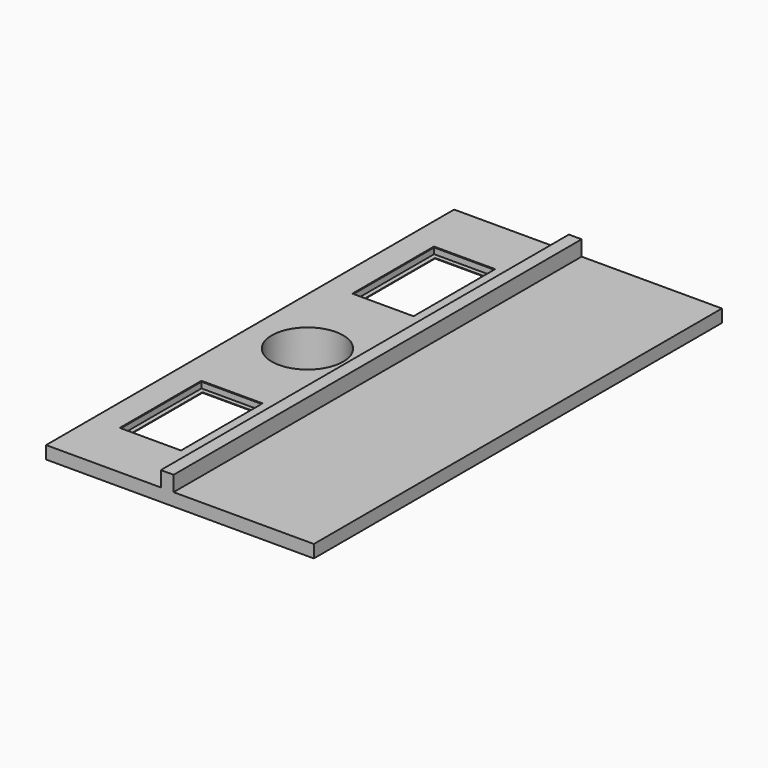
from build123d import *

# Parameters (mm, degrees)
F1_DEPTH  = 2000
F2_R      = 140
F2_W      = 240
F2_H      = 400
F3_DEPTH  = 25
F4_W      = 240
F4_H      = 400
F5_DEPTH  = 25
F6_T      = -2
F6_2_T    = -2
F7_W      = 200
F7_H      = 360
F8_DEPTH  = 25
F9_R      = 142
F10_DEPTH = 200
F11_T     = -2
F13_DEPTH = 2
F15_DEPTH = 2


with BuildPart() as f1:
    # F0 (on Front) → F1 (new body)
    with BuildSketch(Plane.XZ):
        Polygon((0, 50), (0, 0), (2, 0), (2, 48), (452, 48), (452, 108), (498, 108), (498, 48), (1048, 48), (1048, 0), (1050, 0), (1050, 50), (500, 50), (500, 110), (450, 110), (450, 50), align=None)
    extrude(amount=F1_DEPTH)

    # F2 (on face) → F3 (cut)
    with BuildSketch(Plane.XY.offset(50)):
        with Locations((225, -1000)):
            Circle(F2_R)
        with Locations((225, -430)):
            Rectangle(F2_W, F2_H)
        with Locations((225, -1570)):
            Rectangle(F2_W, F2_H)
    extrude(amount=-F3_DEPTH, mode=Mode.SUBTRACT)

    # F12 (on face) → F13 (join)
    with BuildSketch(Plane(origin=(0, 0, 0), x_dir=(-1, 0, 0), z_dir=(0, 1, 0))):
        Polygon((-1050, 50), (-1050, 0), (0, 0), (0, 50), (-450, 50), (-450, 110), (-500, 110), (-500, 50), align=None)
    extrude(amount=-F13_DEPTH)

    # F14 (on face) → F15 (join)
    with BuildSketch(Plane.XZ.offset(2000)):
        Polygon((0, 50), (0, 0), (1050, 0), (1050, 50), (500, 50), (500, 110), (450, 110), (450, 50), align=None)
    extrude(amount=-F15_DEPTH)


with BuildPart() as f5:
    # F4 (on face) → F5 (new body)
    with BuildSketch(Plane(origin=(0, 0, 48), x_dir=(1, 0, 0), z_dir=(0, 0, -1))):
        with Locations((225, 430)):
            Rectangle(F4_W, F4_H)
    extrude(amount=F5_DEPTH)

    # F6
    f6_openings = [f5.faces().sort_by_distance(p)[0] for p in [
        (225, -430, 48),
    ]]
    offset(amount=F6_T, openings=f6_openings)


with BuildPart() as f5b:
    # F4 (on face) → F5, piece 2 (new body)
    with BuildSketch(Plane(origin=(0, 0, 48), x_dir=(1, 0, 0), z_dir=(0, 0, -1))):
        with Locations((225, 1570)):
            Rectangle(F4_W, F4_H)
    extrude(amount=F5_DEPTH)

    # F6#2
    f6_2_openings = [f5b.faces().sort_by_distance(p)[0] for p in [
        (225, -1570, 48),
    ]]
    offset(amount=F6_2_T, openings=f6_2_openings)


with BuildPart() as f8_tool:
    # F7 (on face) → F8 (new body)
    with BuildSketch(Plane(origin=(0, 0, 23), x_dir=(1, 0, 0), z_dir=(0, 0, -1))):
        with Locations((225, 430)):
            Rectangle(F7_W, F7_H)
        with Locations((225, 1570)):
            Rectangle(F7_W, F7_H)
    extrude(amount=-F8_DEPTH)


with BuildPart() as f5_1:
    add(f5.part)

    # F8: cut by f8_tool
    add(f8_tool.part, mode=Mode.SUBTRACT)


with BuildPart() as f5b_1:
    add(f5b.part)

    # F8: cut by f8_tool
    add(f8_tool.part, mode=Mode.SUBTRACT)


with BuildPart() as f10:
    # F9 (on face) → F10 (new body)
    with BuildSketch(Plane(origin=(0, 0, 48), x_dir=(1, 0, 0), z_dir=(0, 0, -1))):
        with Locations((225, 1000)):
            Circle(F9_R)
    extrude(amount=F10_DEPTH)

    # F11
    f11_openings = [f10.faces().sort_by_distance(p)[0] for p in [
        (225, -1000, 48),
        (225, -1000, -152),
    ]]
    offset(amount=F11_T, openings=f11_openings)


solid = Compound([f1.part, f5_1.part, f5b_1.part, f10.part])
